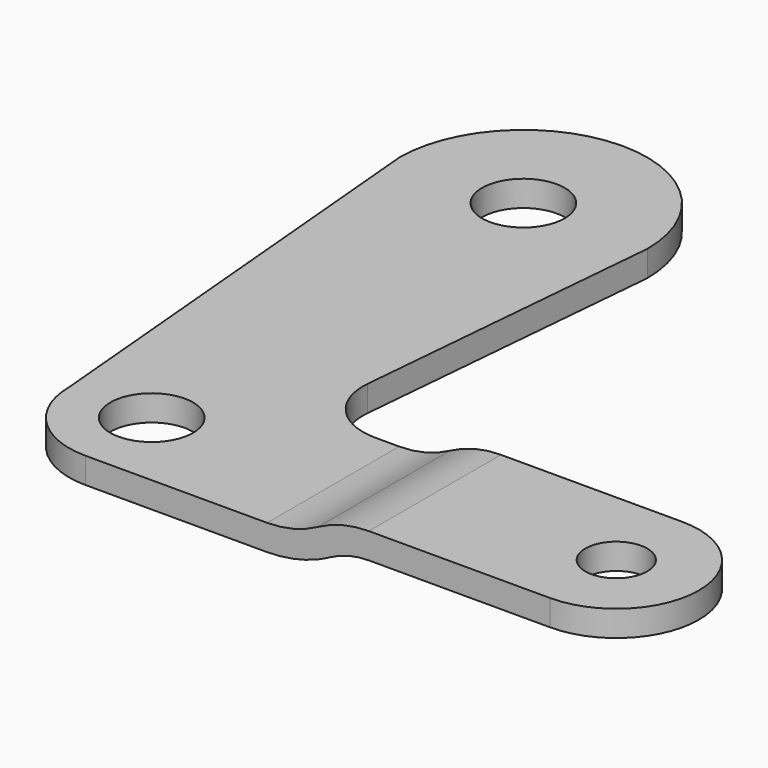
from build123d import *

# Parameters (mm, degrees)
F0_R     = 4
F0_R_2   = 3
F1_DEPTH = 2.5
F2_W     = 12
F2_H     = 2.5
F2_W_2   = 8
F3_DEPTH = 65.001


with BuildPart() as f1:
    # F0 (on Top) → F1 (new body, symmetric)
    with BuildSketch(Plane.XY):
        with BuildLine():
            ThreePointArc((45, -8), (53, 0), (45, 8))
            Line((45, 8), (15.268102, 8))
            ThreePointArc((15.268102, 8), (10.841623, 9.949533), (9.291666, 14.531239))
            Line((9.291666, 14.531239), (12, 45))
            ThreePointArc((12, 45), (0, 57), (-12, 45))
            Line((-12, 45), (-8, 0))
            ThreePointArc((-8, 0), (-5.656854, -5.656854), (0, -8))
            Line((0, -8), (45, -8))
        make_face()
        Circle(F0_R, mode=Mode.SUBTRACT)
        with Locations((45, 0)):
            Circle(F0_R_2, mode=Mode.SUBTRACT)
        with Locations((0, 45)):
            Circle(F0_R, mode=Mode.SUBTRACT)
    extrude(amount=F1_DEPTH, both=True)

    # F2 (on face) → F3 (cut, through all)
    with BuildSketch(Plane.XZ.offset(8)):
        with Locations((-6, 1.25)):
            Rectangle(F2_W, F2_H)
        with BuildLine():
            Line((0, 2.5), (0, 0))
            Line((0, 0), (17.572512, 0))
            ThreePointArc((17.572512, 0), (20.114295, 0.317372), (22.5, 1.25))
            ThreePointArc((22.5, 1.25), (24.885705, 2.182628), (27.427488, 2.5))
            Line((27.427488, 2.5), (0, 2.5))
        make_face()
        with BuildLine():
            ThreePointArc((22.5, -1.51663), (20.084839, -2.251757), (17.572512, -2.5))
            Line((17.572512, -2.5), (22.5, -2.5))
            Line((22.5, -2.5), (22.5, -1.51663))
        make_face()
        with BuildLine():
            Line((22.5, -1.51663), (22.5, -2.5))
            Line((22.5, -2.5), (45, -2.5))
            Line((45, -2.5), (45, 0))
            Line((45, 0), (27.427488, 0))
            ThreePointArc((27.427488, 0), (25.500431, -0.240616), (23.691705, -0.94769))
            ThreePointArc((23.691705, -0.94769), (23.103173, -1.247494), (22.5, -1.51663))
        make_face()
        with Locations((49, -1.25)):
            Rectangle(F2_W_2, F2_H)
    extrude(amount=-F3_DEPTH, mode=Mode.SUBTRACT)


solid = f1.part
